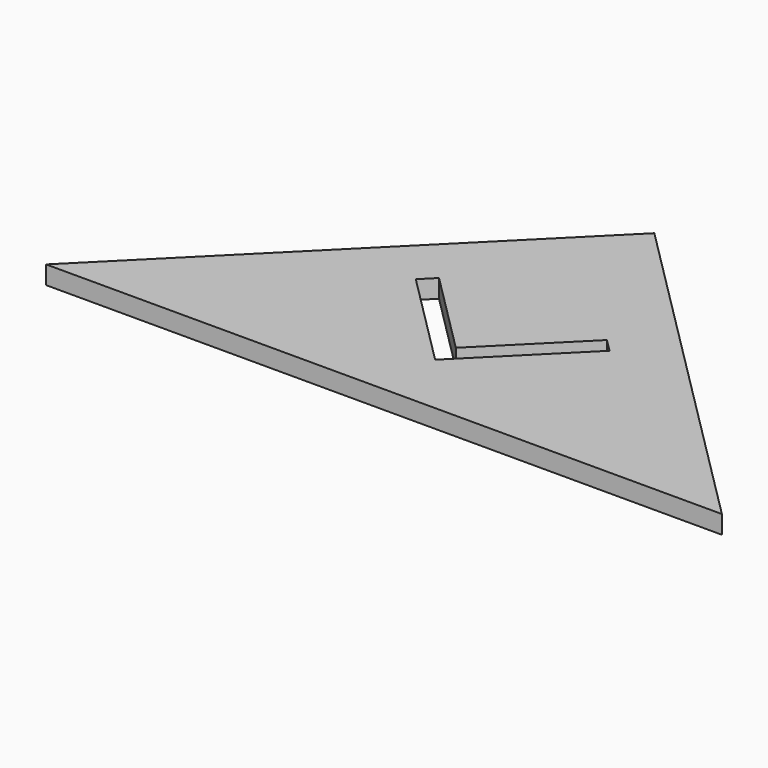
from build123d import *

# Parameters (mm, degrees)
BOX092_W                  = 7.5
BOX092_H                  = 1
BOX092_DEPTH              = 2
BOX090_W                  = 7.5
BOX090_H                  = 1
BOX090_DEPTH              = 2
FUSION018_PLACEMENT_ANGLE = 45
EXTRUDE001_DEPTH          = 1


with BuildPart() as cube092:
    # Box092 → Box092 (new body)
    with BuildSketch(Plane.XY):
        with Locations((3.75, 0.5)):
            Rectangle(BOX092_W, BOX092_H)
    extrude(amount=BOX092_DEPTH)


with BuildPart() as obj1:
    # Box090 → Box090 (new body)
    with BuildSketch(Plane(origin=(1, 0, 0), x_dir=(0, 1, 0), z_dir=(0, 0, 1))):
        with Locations((3.75, 0.5)):
            Rectangle(BOX090_W, BOX090_H)
    extrude(amount=BOX090_DEPTH)

    # Fusion018: union Cube092
    add(cube092.part)


with BuildPart() as obj1_1:
    # Fusion018 placement: moved
    add(obj1.part.moved(Location((0, -15, 0))).rotate(Axis((0, -15, 0), (0, 0, 1)), FUSION018_PLACEMENT_ANGLE))


with BuildPart() as cut010:
    # Sketch012 → Extrude001 (new body)
    with BuildSketch(Plane.XY):
        Polygon((0, 0), (18.5, -18.5), (-18.5, -18.5), align=None)
    extrude(amount=EXTRUDE001_DEPTH)

    # Cut010: cut obj1
    add(obj1_1.part, mode=Mode.SUBTRACT)


solid = cut010.part
